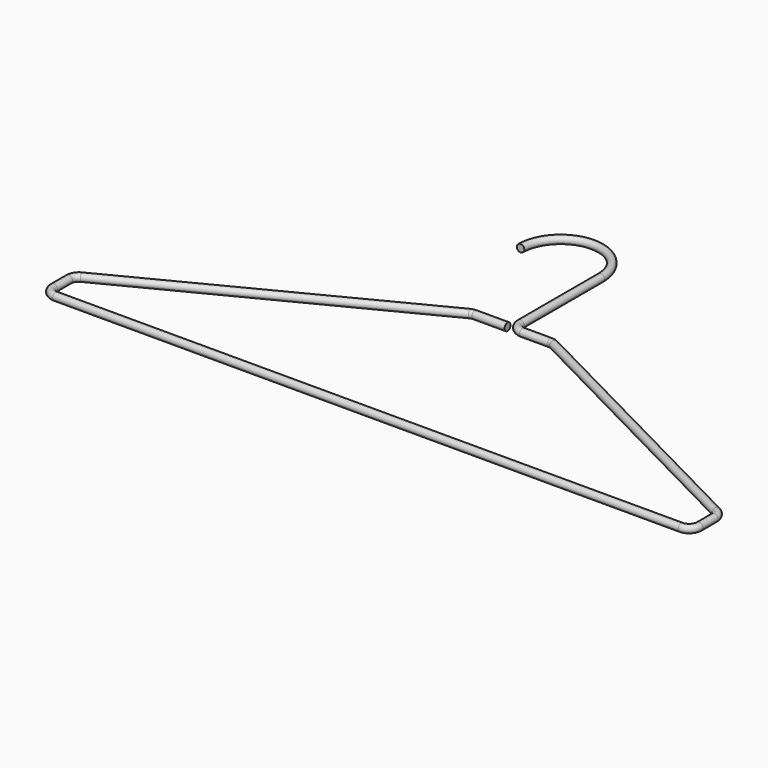
from build123d import *

# Parameters (mm, degrees)
F0_R = 2.38125


with BuildPart() as f2:
    # F2: sweep along a path in F1
    with BuildLine(Plane.XY) as f2_path:
        ThreePointArc((0, 0), (25.4, 25.4), (50.8, 0))
        Line((50.8, 0), (50.8, -63.5))
        ThreePointArc((50.8, -63.5), (52.6598719395, -67.9901280605), (57.15, -69.85))
        Line((57.15, -69.85), (74.6655173483, -69.85))
        ThreePointArc((74.6655173483, -69.85), (76.1570682176, -70.0276604108), (77.5651578144, -70.5507004711))
        Line((77.5651578144, -70.5507004711), (252.1371404662, -160.1540190003))
        ThreePointArc((252.1371404662, -160.1540190003), (254.6566889135, -162.4935010841), (255.5875, -165.8033185292))
        Line((255.5875, -165.8033185292), (255.5875, -177.8))
        ThreePointArc((255.5875, -177.8), (253.7276280605, -182.2901280605), (249.2375, -184.15))
        Line((249.2375, -184.15), (-147.6375, -184.15))
        ThreePointArc((-147.6375, -184.15), (-152.1276280605, -182.2901280605), (-153.9875, -177.8))
        Line((-153.9875, -177.8), (-153.9875, -165.8033185292))
        ThreePointArc((-153.9875, -165.8033185292), (-153.0566889135, -162.4935010841), (-150.5371404662, -160.1540190003))
        Line((-150.5371404662, -160.1540190003), (24.0348421856, -70.5507004711))
        ThreePointArc((24.0348421856, -70.5507004711), (25.4429317824, -70.0276604108), (26.9344826517, -69.85))
        Line((26.9344826517, -69.85), (47.625, -69.85))
    # F0 (on Front) → F2 (sweep)
    with BuildSketch(Plane.XZ):
        Circle(F0_R)
    sweep(path=f2_path.line)


solid = f2.part
